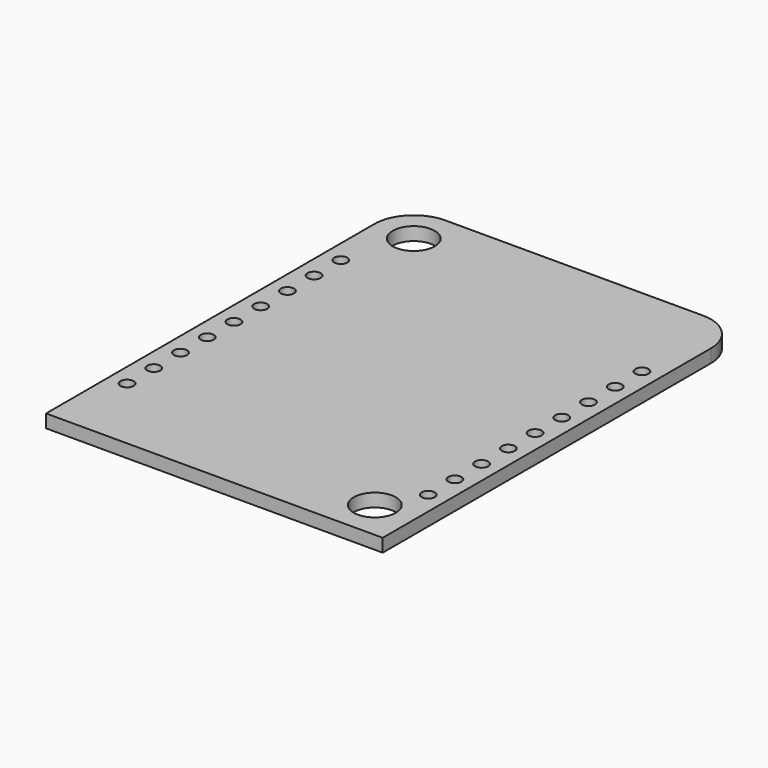
from build123d import *

# Parameters (mm, degrees)
SKETCH012_R                             = 1.6
PAD006_DEPTH                            = 1
SKETCH019_R                             = 0.5
POCKET003_DEPTH                         = 86.464442
POCKET003_DEPTH_BACK                    = 85.464442
SKETCH019_LINEARPATTERN001_2_R          = 0.5
POCKET003_LINEARPATTERN001_2_DEPTH      = 86.464442
POCKET003_LINEARPATTERN001_2_DEPTH_BACK = 85.464442
SKETCH019_LINEARPATTERN001_3_R          = 0.5
POCKET003_LINEARPATTERN001_3_DEPTH      = 86.464442
POCKET003_LINEARPATTERN001_3_DEPTH_BACK = 85.464442
SKETCH019_LINEARPATTERN001_4_R          = 0.5
POCKET003_LINEARPATTERN001_4_DEPTH      = 86.464442
POCKET003_LINEARPATTERN001_4_DEPTH_BACK = 85.464442
SKETCH019_LINEARPATTERN001_5_R          = 0.5
POCKET003_LINEARPATTERN001_5_DEPTH      = 86.464442
POCKET003_LINEARPATTERN001_5_DEPTH_BACK = 85.464442
SKETCH019_LINEARPATTERN001_6_R          = 0.5
POCKET003_LINEARPATTERN001_6_DEPTH      = 86.464442
POCKET003_LINEARPATTERN001_6_DEPTH_BACK = 85.464442
SKETCH019_LINEARPATTERN001_7_R          = 0.5
POCKET003_LINEARPATTERN001_7_DEPTH      = 86.464442
POCKET003_LINEARPATTERN001_7_DEPTH_BACK = 85.464442
SKETCH019_LINEARPATTERN001_8_R          = 0.5
POCKET003_LINEARPATTERN001_8_DEPTH      = 86.464442
POCKET003_LINEARPATTERN001_8_DEPTH_BACK = 85.464442
SKETCH019_LINEARPATTERN001_9_R          = 0.5
POCKET003_LINEARPATTERN001_9_DEPTH      = 86.464442
POCKET003_LINEARPATTERN001_9_DEPTH_BACK = 85.464442


with BuildPart() as part:
    # Sketch012 → Pad006 (new body)
    with BuildSketch(Plane.XY):
        with BuildLine():
            Line((9.8, 17.1), (-9.8, 17.1))
            ThreePointArc((-9.8, 17.1), (-11.92132, 16.22132), (-12.8, 14.1))
            Line((-12.8, 14.1), (-12.8, -17.1))
            Line((-12.8, -17.1), (12.8, -17.1))
            Line((12.8, -17.1), (12.8, 14.1))
            ThreePointArc((12.8, 14.1), (11.92132, 16.22132), (9.8, 17.1))
        make_face()
        with Locations((-9.8, 14.1)):
            Circle(SKETCH012_R, mode=Mode.SUBTRACT)
        with Locations((9.8, -14.1)):
            Circle(SKETCH012_R, mode=Mode.SUBTRACT)
    extrude(amount=-PAD006_DEPTH)

    # Sketch019 → Pocket003 (cut, two sides)
    with BuildSketch(Plane.XY) as pocket003_sk:
        with Locations((11.45, -11.09)):
            Circle(SKETCH019_R)
    pocket003 = extrude(amount=-POCKET003_DEPTH, mode=Mode.SUBTRACT) + extrude(pocket003_sk.sketch, amount=POCKET003_DEPTH_BACK, mode=Mode.SUBTRACT)

    # Sketch019 LinearPattern001 2 → Pocket003 LinearPattern001 2 (cut, two sides)
    with BuildSketch(Plane(origin=(0, 2.54, 0), x_dir=(1, 0, 0), z_dir=(0, 0, 1))) as pocket003_linearpattern001_2_sk:
        with Locations((11.45, -11.09)):
            Circle(SKETCH019_LINEARPATTERN001_2_R)
    pocket003_linearpattern001_2 = extrude(amount=-POCKET003_LINEARPATTERN001_2_DEPTH, mode=Mode.SUBTRACT) + extrude(pocket003_linearpattern001_2_sk.sketch, amount=POCKET003_LINEARPATTERN001_2_DEPTH_BACK, mode=Mode.SUBTRACT)

    # Sketch019 LinearPattern001 3 → Pocket003 LinearPattern001 3 (cut, two sides)
    with BuildSketch(Plane(origin=(0, 5.08, 0), x_dir=(1, 0, 0), z_dir=(0, 0, 1))) as pocket003_linearpattern001_3_sk:
        with Locations((11.45, -11.09)):
            Circle(SKETCH019_LINEARPATTERN001_3_R)
    pocket003_linearpattern001_3 = extrude(amount=-POCKET003_LINEARPATTERN001_3_DEPTH, mode=Mode.SUBTRACT) + extrude(pocket003_linearpattern001_3_sk.sketch, amount=POCKET003_LINEARPATTERN001_3_DEPTH_BACK, mode=Mode.SUBTRACT)

    # Sketch019 LinearPattern001 4 → Pocket003 LinearPattern001 4 (cut, two sides)
    with BuildSketch(Plane(origin=(0, 7.62, 0), x_dir=(1, 0, 0), z_dir=(0, 0, 1))) as pocket003_linearpattern001_4_sk:
        with Locations((11.45, -11.09)):
            Circle(SKETCH019_LINEARPATTERN001_4_R)
    pocket003_linearpattern001_4 = extrude(amount=-POCKET003_LINEARPATTERN001_4_DEPTH, mode=Mode.SUBTRACT) + extrude(pocket003_linearpattern001_4_sk.sketch, amount=POCKET003_LINEARPATTERN001_4_DEPTH_BACK, mode=Mode.SUBTRACT)

    # Sketch019 LinearPattern001 5 → Pocket003 LinearPattern001 5 (cut, two sides)
    with BuildSketch(Plane(origin=(0, 10.16, 0), x_dir=(1, 0, 0), z_dir=(0, 0, 1))) as pocket003_linearpattern001_5_sk:
        with Locations((11.45, -11.09)):
            Circle(SKETCH019_LINEARPATTERN001_5_R)
    pocket003_linearpattern001_5 = extrude(amount=-POCKET003_LINEARPATTERN001_5_DEPTH, mode=Mode.SUBTRACT) + extrude(pocket003_linearpattern001_5_sk.sketch, amount=POCKET003_LINEARPATTERN001_5_DEPTH_BACK, mode=Mode.SUBTRACT)

    # Sketch019 LinearPattern001 6 → Pocket003 LinearPattern001 6 (cut, two sides)
    with BuildSketch(Plane(origin=(0, 12.7, 0), x_dir=(1, 0, 0), z_dir=(0, 0, 1))) as pocket003_linearpattern001_6_sk:
        with Locations((11.45, -11.09)):
            Circle(SKETCH019_LINEARPATTERN001_6_R)
    pocket003_linearpattern001_6 = extrude(amount=-POCKET003_LINEARPATTERN001_6_DEPTH, mode=Mode.SUBTRACT) + extrude(pocket003_linearpattern001_6_sk.sketch, amount=POCKET003_LINEARPATTERN001_6_DEPTH_BACK, mode=Mode.SUBTRACT)

    # Sketch019 LinearPattern001 7 → Pocket003 LinearPattern001 7 (cut, two sides)
    with BuildSketch(Plane(origin=(0, 15.24, 0), x_dir=(1, 0, 0), z_dir=(0, 0, 1))) as pocket003_linearpattern001_7_sk:
        with Locations((11.45, -11.09)):
            Circle(SKETCH019_LINEARPATTERN001_7_R)
    pocket003_linearpattern001_7 = extrude(amount=-POCKET003_LINEARPATTERN001_7_DEPTH, mode=Mode.SUBTRACT) + extrude(pocket003_linearpattern001_7_sk.sketch, amount=POCKET003_LINEARPATTERN001_7_DEPTH_BACK, mode=Mode.SUBTRACT)

    # Sketch019 LinearPattern001 8 → Pocket003 LinearPattern001 8 (cut, two sides)
    with BuildSketch(Plane(origin=(0, 17.78, 0), x_dir=(1, 0, 0), z_dir=(0, 0, 1))) as pocket003_linearpattern001_8_sk:
        with Locations((11.45, -11.09)):
            Circle(SKETCH019_LINEARPATTERN001_8_R)
    pocket003_linearpattern001_8 = extrude(amount=-POCKET003_LINEARPATTERN001_8_DEPTH, mode=Mode.SUBTRACT) + extrude(pocket003_linearpattern001_8_sk.sketch, amount=POCKET003_LINEARPATTERN001_8_DEPTH_BACK, mode=Mode.SUBTRACT)

    # Sketch019 LinearPattern001 9 → Pocket003 LinearPattern001 9 (cut, two sides)
    with BuildSketch(Plane(origin=(0, 20.32, 0), x_dir=(1, 0, 0), z_dir=(0, 0, 1))) as pocket003_linearpattern001_9_sk:
        with Locations((11.45, -11.09)):
            Circle(SKETCH019_LINEARPATTERN001_9_R)
    pocket003_linearpattern001_9 = extrude(amount=-POCKET003_LINEARPATTERN001_9_DEPTH, mode=Mode.SUBTRACT) + extrude(pocket003_linearpattern001_9_sk.sketch, amount=POCKET003_LINEARPATTERN001_9_DEPTH_BACK, mode=Mode.SUBTRACT)

    # Mirrored004: Pocket003, Pocket003 LinearPattern001 2, Pocket003 LinearPattern001 3, Pocket003 LinearPattern001 4, Pocket003 LinearPattern001 5, Pocket003 LinearPattern001 6, Pocket003 LinearPattern001 7, Pocket003 LinearPattern001 8, Pocket003 LinearPattern001 9 across YZ
    add(pocket003.mirror(Plane.YZ), mode=Mode.SUBTRACT)
    add(pocket003_linearpattern001_2.mirror(Plane.YZ), mode=Mode.SUBTRACT)
    add(pocket003_linearpattern001_3.mirror(Plane.YZ), mode=Mode.SUBTRACT)
    add(pocket003_linearpattern001_4.mirror(Plane.YZ), mode=Mode.SUBTRACT)
    add(pocket003_linearpattern001_5.mirror(Plane.YZ), mode=Mode.SUBTRACT)
    add(pocket003_linearpattern001_6.mirror(Plane.YZ), mode=Mode.SUBTRACT)
    add(pocket003_linearpattern001_7.mirror(Plane.YZ), mode=Mode.SUBTRACT)
    add(pocket003_linearpattern001_8.mirror(Plane.YZ), mode=Mode.SUBTRACT)
    add(pocket003_linearpattern001_9.mirror(Plane.YZ), mode=Mode.SUBTRACT)


with BuildPart() as part_1:
    # Body005 placement: moved
    add(part.part.moved(Location((0, 17.1, 0))))


solid = part_1.part
